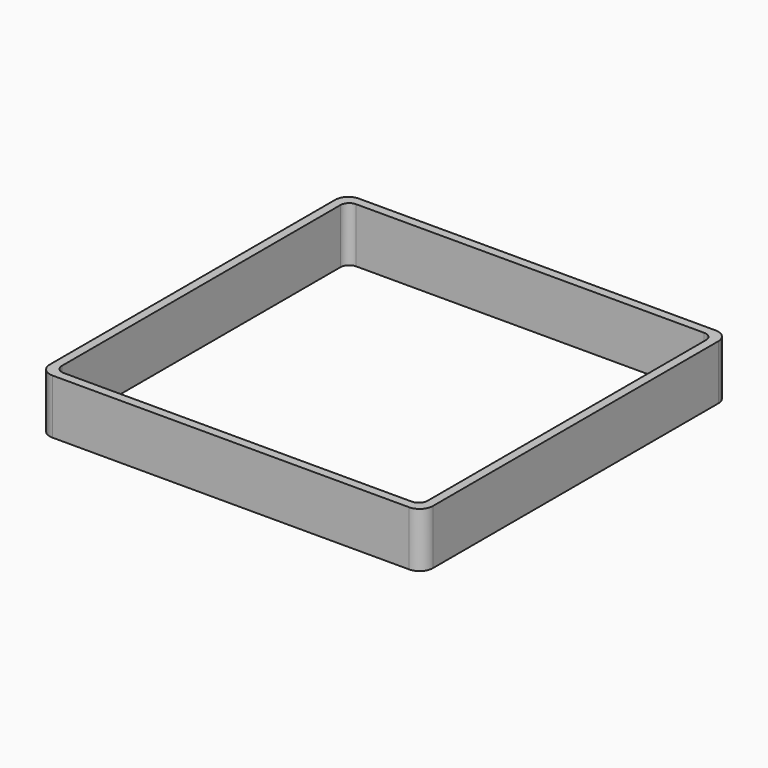
from build123d import *

# Parameters (mm, degrees)
EXTRUDE_DEPTH = 50


with BuildPart() as part:
    # Sketch → Extrude (new body)
    with BuildSketch(Plane.XY):
        with BuildLine():
            Line((-163, 175), (163, 175))
            ThreePointArc((175, 163), (171.485281, 171.485281), (163, 175))
            Line((175, 163), (175, -163))
            ThreePointArc((163, -175), (171.485281, -171.485281), (175, -163))
            Line((163, -175), (-163, -175))
            ThreePointArc((-175, -163), (-171.485281, -171.485281), (-163, -175))
            Line((-175, -163), (-175, 163))
            ThreePointArc((-163, 175), (-171.485281, 171.485281), (-175, 163))
        make_face()
        with BuildLine():
            Line((-159, 167), (159, 167))
            ThreePointArc((167, 159), (164.656854, 164.656854), (159, 167))
            Line((167, 159), (167, -159))
            ThreePointArc((159, -167), (164.656854, -164.656854), (167, -159))
            Line((159, -167), (-159, -167))
            ThreePointArc((-167, -159), (-164.656854, -164.656854), (-159, -167))
            Line((-167, -159), (-167, 159))
            ThreePointArc((-159, 167), (-164.656854, 164.656854), (-167, 159))
        make_face(mode=Mode.SUBTRACT)
    extrude(amount=EXTRUDE_DEPTH)


solid = part.part
